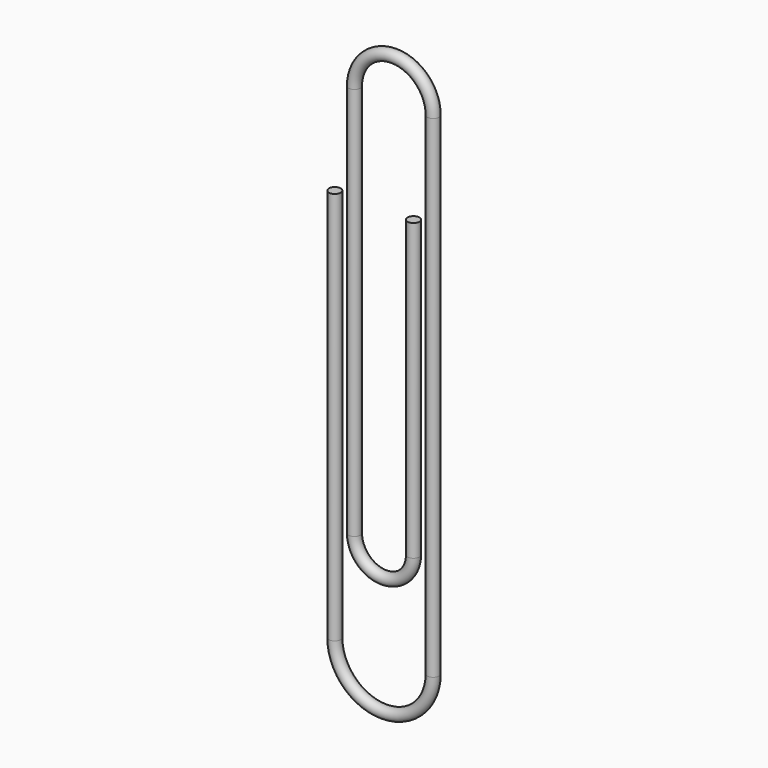
from build123d import *

# Parameters (mm, degrees)
F1_R = 0.381


with BuildPart() as f2:
    # F2: sweep along a path in F0
    with BuildLine(Plane.XZ) as f2_path:
        Line((0, 0), (0, -25.4))
        ThreePointArc((0, -25.4), (3.175, -28.575), (6.35, -25.4))
        Line((6.35, -25.4), (6.35, 6.35))
        ThreePointArc((6.35, 6.35), (3.81, 8.89), (1.27, 6.35))
        Line((1.27, 6.35), (1.27, -19.05))
        ThreePointArc((1.27, -19.05), (3.175, -20.955), (5.08, -19.05))
        Line((5.08, -19.05), (5.08, 0))
    # F1 (on Top) → F2 (sweep)
    with BuildSketch(Plane.XY):
        Circle(F1_R)
    sweep(path=f2_path.line)


solid = f2.part
